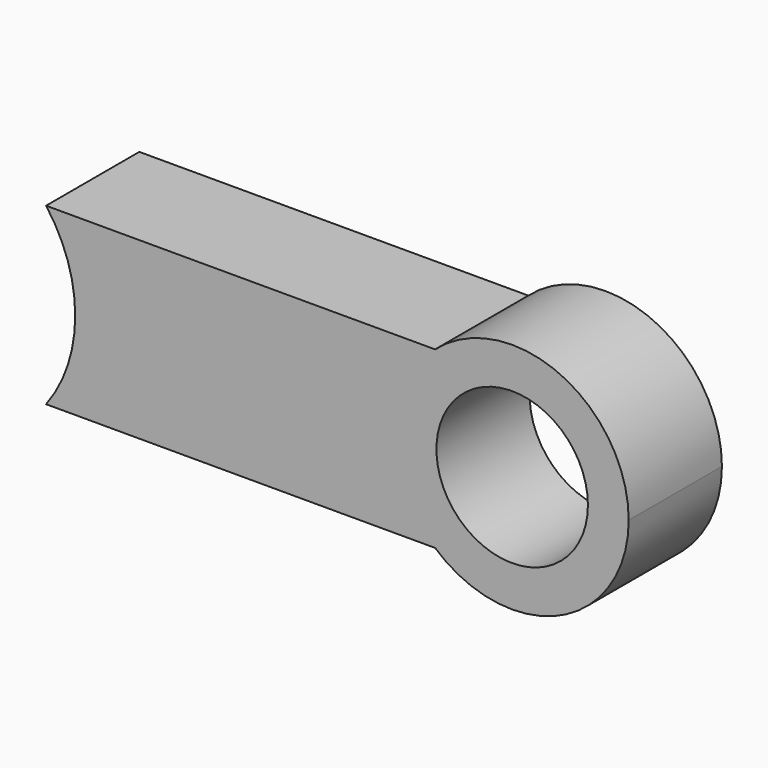
from build123d import *

# Parameters (mm, degrees)
F0_R     = 33.02
F1_DEPTH = 50.8


with BuildPart() as f1:
    # F0 (on Front) → F1 (new body)
    with BuildSketch(Plane.XZ):
        with BuildLine():
            ThreePointArc((50.8, 38.1), (60.241389, 20.080463), (63.5, 0))
            ThreePointArc((63.5, 0), (60.241389, -20.080463), (50.8, -38.1))
            Line((50.8, -38.1), (220.398958, -38.1))
            ThreePointArc((220.398958, -38.1), (203.2, 0), (220.398958, 38.1))
            Line((220.398958, 38.1), (50.8, 38.1))
        make_face()
        with BuildLine():
            ThreePointArc((304.8, 0), (274.901042, 46.301042), (220.398958, 38.1))
            ThreePointArc((220.398958, 38.1), (203.2, 0), (220.398958, -38.1))
            ThreePointArc((220.398958, -38.1), (274.901042, -46.301042), (304.8, 0))
        make_face()
        with Locations((254, 0)):
            Circle(F0_R, mode=Mode.SUBTRACT)
    extrude(amount=F1_DEPTH)


solid = f1.part
